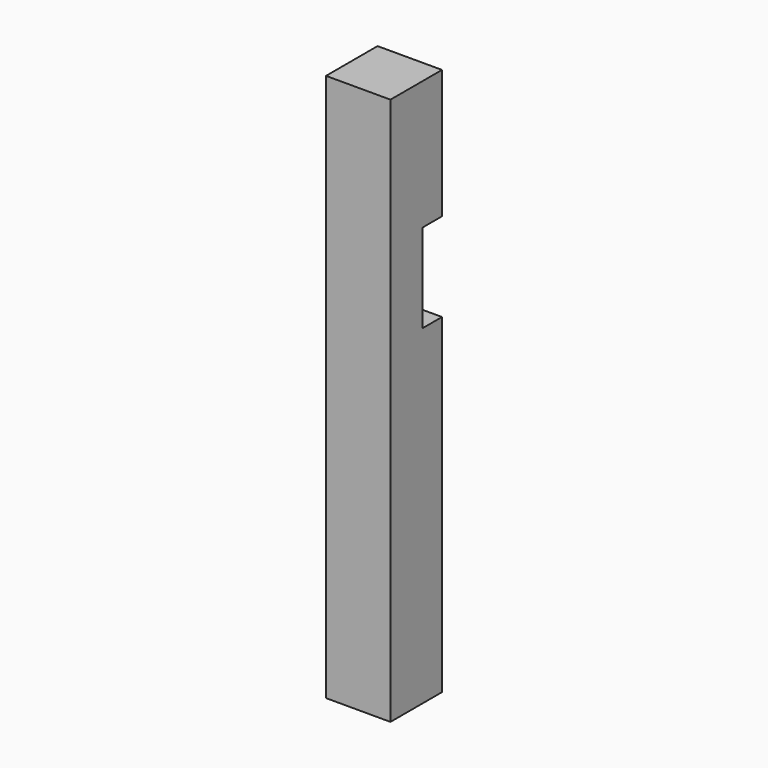
from build123d import *

# Parameters (mm, degrees)
F1_DEPTH = 101.6
F0_W     = 38.1
F0_H     = 139.7
F2_DEPTH = 63.5


with BuildPart() as f1:
    # F0 (on Front) → F1 (new body)
    with BuildSketch(Plane.XZ):
        Polygon((-96.136503, 795.997164), (-96.136503, -67.602836), (5.463497, -67.602836), (5.463497, 453.097164), (-32.636503, 453.097164), (-32.636503, 592.797164), (5.463497, 592.797164), (5.463497, 795.997164), align=None)
    extrude(amount=-F1_DEPTH)

    # F0 (on Front) → F2 (join)
    with BuildSketch(Plane.XZ):
        with Locations((-13.586503, 522.947164)):
            Rectangle(F0_W, F0_H)
    extrude(amount=-F2_DEPTH)


solid = f1.part
